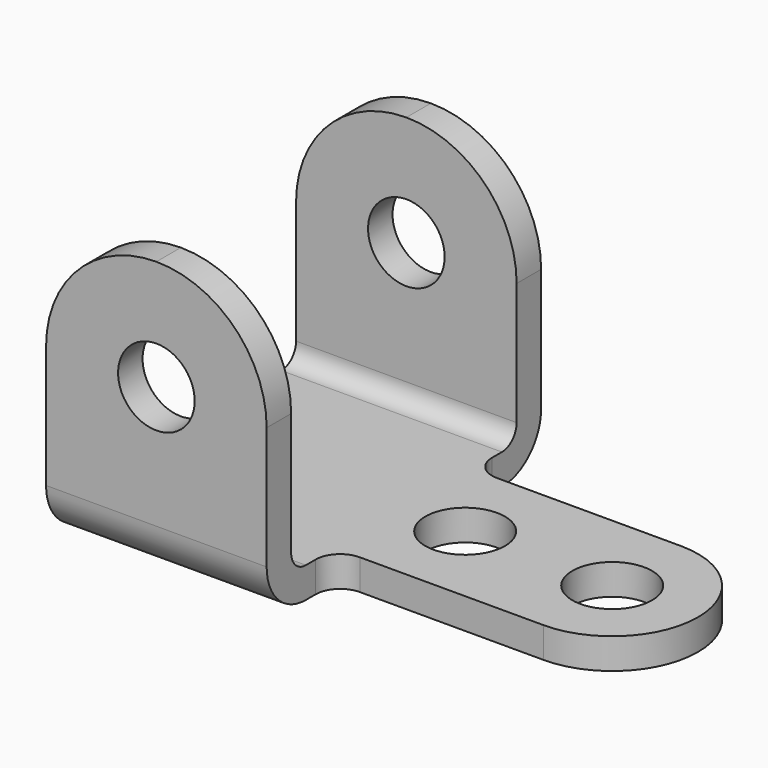
from build123d import *

# Parameters (mm, degrees)
F1_DEPTH = 57.15
F2_R     = 9.92251
F3_DEPTH = 88.901
F4_R     = 10.3251
F5_DEPTH = 7.9375


with BuildPart() as f1:
    # F0 (on Right) → F1 (new body)
    with BuildSketch(Plane.YZ):
        with BuildLine():
            Line((-36.5125, 73.025), (-44.45, 73.025))
            Line((-44.45, 73.025), (-44.45, 12.7))
            ThreePointArc((-44.45, 12.7), (-40.730256, 3.719744), (-31.75, 0))
            Line((-31.75, 0), (0, 0))
            Line((0, 0), (0, 7.9375))
            Line((0, 7.9375), (-31.75, 7.9375))
            ThreePointArc((-31.75, 7.9375), (-35.117596, 9.332404), (-36.5125, 12.7))
            Line((-36.5125, 12.7), (-36.5125, 73.025))
        make_face()
        with BuildLine():
            Line((0, 7.9375), (0, 0))
            Line((0, 0), (31.75, 0))
            ThreePointArc((31.75, 0), (40.730256, 3.719744), (44.45, 12.7))
            Line((44.45, 12.7), (44.45, 73.025))
            Line((44.45, 73.025), (36.5125, 73.025))
            Line((36.5125, 73.025), (36.5125, 12.7))
            ThreePointArc((36.5125, 12.7), (35.117596, 9.332404), (31.75, 7.9375))
            Line((31.75, 7.9375), (0, 7.9375))
        make_face()
    extrude(amount=F1_DEPTH)

    # F2 (on face) → F3 (cut, through all)
    with BuildSketch(Plane.XZ.offset(44.45)):
        with Locations((28.575, 44.45)):
            Circle(F2_R)
        with BuildLine():
            ThreePointArc((28.575, 73.025), (48.780576, 64.655576), (57.15, 44.45))
            Line((57.15, 44.45), (57.15, 73.025))
            Line((57.15, 73.025), (28.575, 73.025))
        make_face()
        with BuildLine():
            ThreePointArc((0, 44.45), (8.369424, 64.655576), (28.575, 73.025))
            Line((28.575, 73.025), (0, 73.025))
            Line((0, 73.025), (0, 44.45))
        make_face()
    extrude(amount=-F3_DEPTH, mode=Mode.SUBTRACT)

    # F4 (on Top) → F5 (join)
    with BuildSketch(Plane.XY):
        with BuildLine():
            ThreePointArc((63.5, 22.225), (59.009872, 24.084872), (57.15, 28.575))
            Line((57.15, 28.575), (57.15, -28.575))
            ThreePointArc((57.15, -28.575), (59.009872, -24.084872), (63.5, -22.225))
            Line((63.5, -22.225), (111.125, -22.225))
            ThreePointArc((111.125, -22.225), (133.35, 0), (111.125, 22.225))
            Line((111.125, 22.225), (63.5, 22.225))
        make_face()
        with Locations((73.025, 0)):
            Circle(F4_R, mode=Mode.SUBTRACT)
        with Locations((111.125, 0)):
            Circle(F4_R, mode=Mode.SUBTRACT)
    extrude(amount=F5_DEPTH)


solid = f1.part
